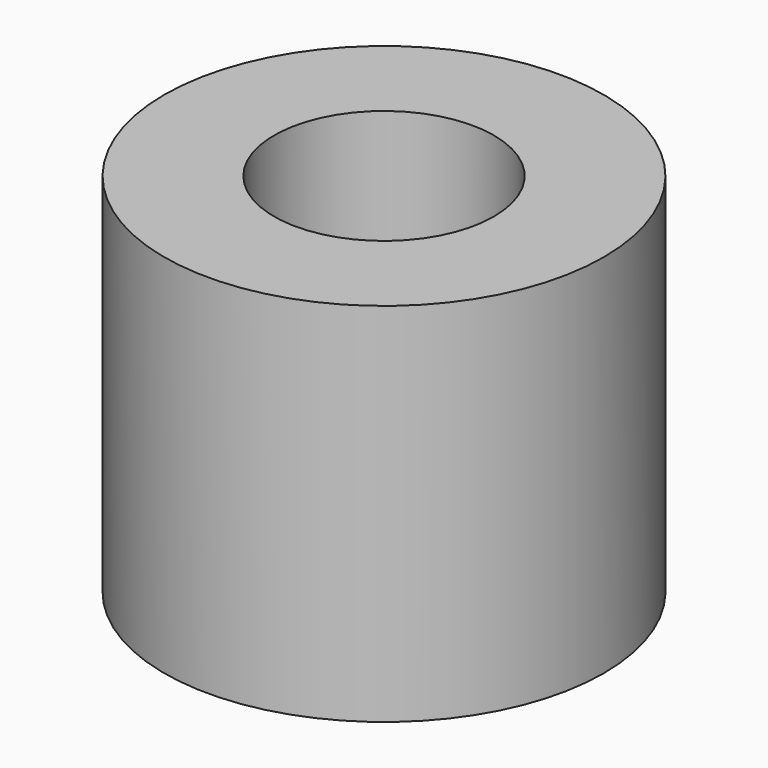
from build123d import *

# Parameters (mm, degrees)
SKETCH_R   = 3
SKETCH_R_2 = 1.5
PAD_DEPTH  = 5


with BuildPart() as part:
    # Sketch → Pad (new body)
    with BuildSketch(Plane.XY):
        Circle(SKETCH_R)
        Circle(SKETCH_R_2, mode=Mode.SUBTRACT)
    extrude(amount=PAD_DEPTH)


solid = part.part
